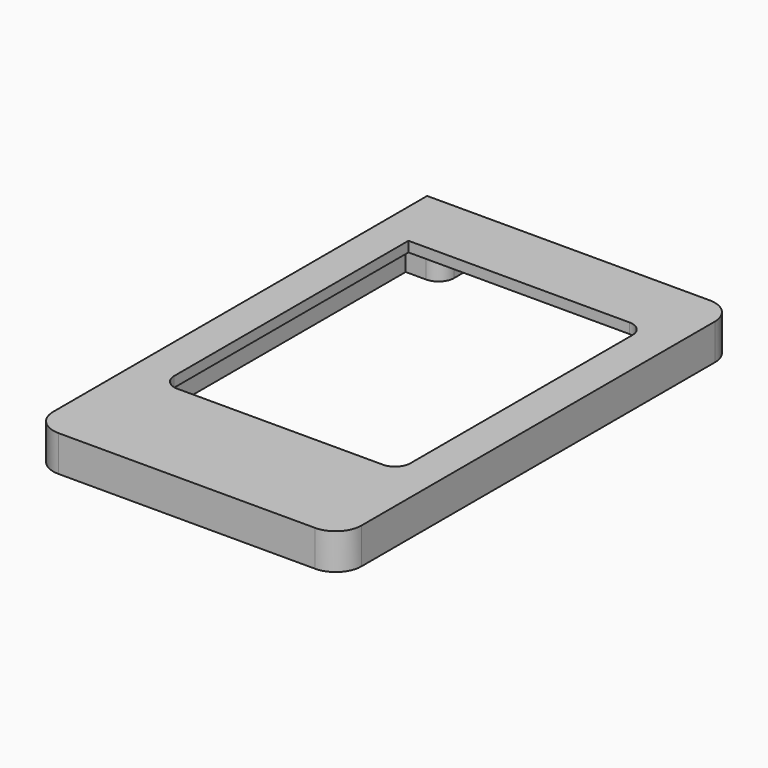
from build123d import *

# Parameters (mm, degrees)
F0_R     = 1.5
F1_DEPTH = 5
F2_W     = 50.6
F2_H     = 86.6
F2_R     = 1.5
F3_DEPTH = 5
F4_R     = 1.1
F5_DEPTH = 5
F7_DEPTH = 2


with BuildPart() as f1:
    # F0 (on Top) → F1 (new body)
    with BuildSketch(Plane.XY):
        with BuildLine():
            Line((-25, -48), (25, -48))
            ThreePointArc((25, -48), (28.535534, -46.535534), (30, -43))
            Line((30, -43), (30, 43))
            ThreePointArc((30, 43), (28.535534, 46.535534), (25, 48))
            Line((25, 48), (-27, 48))
            Line((-27, 48), (-30, 48))
            Line((-30, 48), (-30, 43))
            Line((-30, 43), (-30, -43))
            ThreePointArc((-30, -43), (-28.535534, -46.535534), (-25, -48))
        make_face()
        with Locations((-22, -36.08)):
            Circle(F0_R, mode=Mode.SUBTRACT)
        with Locations((22, -36.08)):
            Circle(F0_R, mode=Mode.SUBTRACT)
        with Locations((-22, 40)):
            Circle(F0_R, mode=Mode.SUBTRACT)
        with Locations((22, 40)):
            Circle(F0_R, mode=Mode.SUBTRACT)
    extrude(amount=F1_DEPTH)

    # F2 (on face) → F3 (cut)
    with BuildSketch(Plane.XY.offset(5)):
        Rectangle(F2_W, F2_H)
        with Locations((-22, -36.08)):
            Circle(F2_R, mode=Mode.SUBTRACT)
        with Locations((22, -36.08)):
            Circle(F2_R, mode=Mode.SUBTRACT)
        with Locations((-22, 40)):
            Circle(F2_R, mode=Mode.SUBTRACT)
        with Locations((22, 40)):
            Circle(F2_R, mode=Mode.SUBTRACT)
    extrude(amount=-F3_DEPTH, mode=Mode.SUBTRACT)

    # F4 (on face) → F5 (join)
    with BuildSketch(Plane.XY.offset(5)):
        with BuildLine():
            Line((-18.3, 43.3), (-25.3, 43.3))
            Line((-25.3, 43.3), (-25.3, 36.9))
            Line((-25.3, 36.9), (-21.3, 36.9))
            ThreePointArc((-21.3, 36.9), (-19.17868, 37.77868), (-18.3, 39.9))
            Line((-18.3, 39.9), (-18.3, 43.3))
        make_face()
        with Locations((-22, 40)):
            Circle(F4_R, mode=Mode.SUBTRACT)
        with BuildLine():
            Line((25.3, 36.9), (25.3, 43.3))
            Line((25.3, 43.3), (18.3, 43.3))
            Line((18.3, 43.3), (18.3, 39.9))
            ThreePointArc((18.3, 39.9), (19.17868, 37.77868), (21.3, 36.9))
            Line((21.3, 36.9), (25.3, 36.9))
        make_face()
        with Locations((22, 40)):
            Circle(F4_R, mode=Mode.SUBTRACT)
        with BuildLine():
            Line((18.3, -43.3), (25.3, -43.3))
            Line((25.3, -43.3), (25.3, -32.9))
            Line((25.3, -32.9), (21.3, -32.9))
            ThreePointArc((21.3, -32.9), (19.17868, -33.77868), (18.3, -35.9))
            Line((18.3, -35.9), (18.3, -43.3))
        make_face()
        with Locations((22, -36.08)):
            Circle(F4_R, mode=Mode.SUBTRACT)
        with BuildLine():
            Line((-25.3, -32.9), (-25.3, -43.3))
            Line((-25.3, -43.3), (-18.3, -43.3))
            Line((-18.3, -43.3), (-18.3, -35.9))
            ThreePointArc((-18.3, -35.9), (-19.17868, -33.77868), (-21.3, -32.9))
            Line((-21.3, -32.9), (-25.3, -32.9))
        make_face()
        with Locations((-22, -36.08)):
            Circle(F4_R, mode=Mode.SUBTRACT)
    extrude(amount=-F5_DEPTH)

    # F6 (on face) → F7 (join)
    with BuildSketch(Plane.XY.offset(5)):
        with BuildLine():
            Line((25, 48), (-30, 48))
            Line((-30, 48), (-30, -43))
            ThreePointArc((-30, -43), (-28.535534, -46.535534), (-25, -48))
            Line((-25, -48), (25, -48))
            ThreePointArc((25, -48), (28.535534, -46.535534), (30, -43))
            Line((30, -43), (30, 43))
            ThreePointArc((30, 43), (28.535534, 46.535534), (25, 48))
        make_face()
        with BuildLine():
            Line((-23, 34.7), (-20, 34.7))
            Line((-20, 34.7), (20, 34.7))
            ThreePointArc((20, 34.7), (22.12132, 33.82132), (23, 31.7))
            Line((23, 31.7), (23, -22.3))
            ThreePointArc((23, -22.3), (22.12132, -24.42132), (20, -25.3))
            Line((20, -25.3), (-20, -25.3))
            ThreePointArc((-20, -25.3), (-22.12132, -24.42132), (-23, -22.3))
            Line((-23, -22.3), (-23, 31.7))
            Line((-23, 31.7), (-23, 34.7))
        make_face(mode=Mode.SUBTRACT)
    extrude(amount=F7_DEPTH)


solid = f1.part
